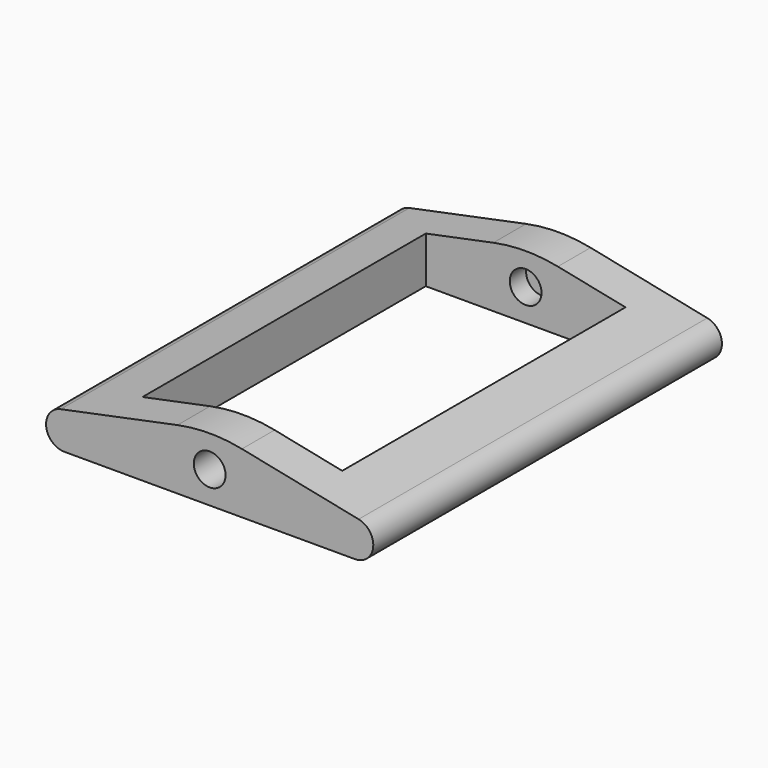
from build123d import *

# Parameters (mm, degrees)
F1_DEPTH = 24
F3_DEPTH = 7.001
F4_R     = 1.75
F5_DEPTH = 45.75


with BuildPart() as f1:
    # F0 (on Front) → F1 (new body, symmetric)
    with BuildSketch(Plane.XZ):
        with BuildLine():
            ThreePointArc((-16.406394, 4), (-18.010296, 1.816402), (-16, 0))
            Line((-16, 0), (16, 0))
            ThreePointArc((16, 0), (18.010296, 1.816402), (16.406394, 4))
            Line((16.406394, 4), (3.552904, 6.63903))
            ThreePointArc((3.552904, 6.63903), (0, 7), (-3.552904, 6.63903))
            Line((-3.552904, 6.63903), (-16.406394, 4))
        make_face()
    extrude(amount=F1_DEPTH, both=True)

    # F2 (on face) → F3 (cut, through all)
    with BuildSketch(Plane(origin=(0, 0, 0), x_dir=(1, 0, 0), z_dir=(0, 0, -1))):
        Polygon((-11, 19.5), (-11, -19.5), (-4, -19.5), (4, -19.5), (11, -19.5), (11, 19.5), (4, 19.5), (-4, 19.5), align=None)
    extrude(amount=-F3_DEPTH, mode=Mode.SUBTRACT)

    # F4 (on face) → F5 (cut, through all)
    with BuildSketch(Plane.XZ.offset(24)):
        with Locations((0, 3.5)):
            Circle(F4_R)
    extrude(amount=-F5_DEPTH, mode=Mode.SUBTRACT)


solid = f1.part
